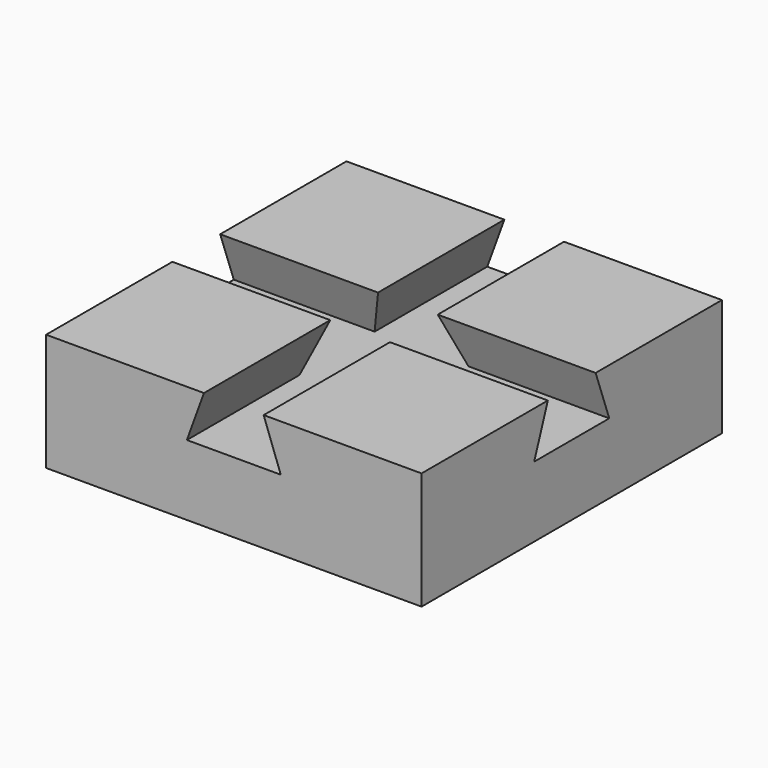
from build123d import *

# Parameters (mm, degrees)
F1_DEPTH = 80
F3_DEPTH = 80


with BuildPart() as f1:
    # F0 (on Front) → F1 (new body)
    with BuildSketch(Plane.XZ):
        Polygon((-80, 0), (0, 0), (0, 25), (-33.64, 25), (-30, 15), (-50, 15), (-46.36, 25), (-80, 25), align=None)
    extrude(amount=F1_DEPTH)

    # F2 (on face) → F3 (cut)
    with BuildSketch(Plane.YZ):
        Polygon((-50, 15), (-30, 15), (-33.64, 25), (-46.36, 25), align=None)
    extrude(amount=-F3_DEPTH, mode=Mode.SUBTRACT)


solid = f1.part
